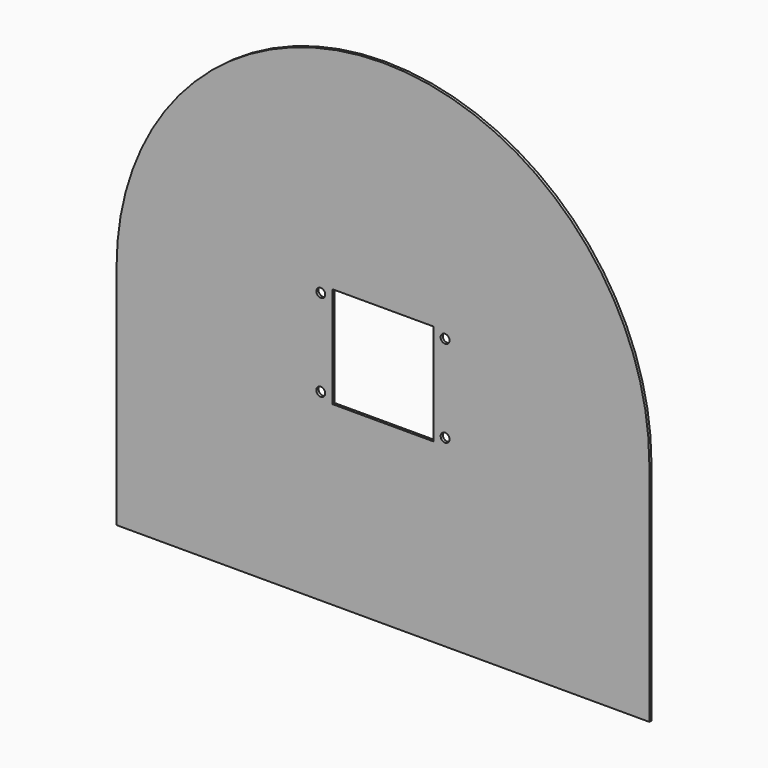
from build123d import *

# Parameters (mm, degrees)
F0_R     = 5
F1_DEPTH = 3


with BuildPart() as f1:
    # F0 (on Front) → F1 (new body)
    with BuildSketch(Plane.XZ):
        with BuildLine():
            ThreePointArc((75, 79), (70, 84), (65, 79))
            ThreePointArc((65, 79), (70, 74), (75, 79))
        make_face()
        with Locations((-70, 79)):
            Circle(F0_R)
        Polygon((-300, 128), (-300, -128), (300, -128), (300, 128), (57, 128), (57, 79), (57, 71), (-57, 71), (-57, 79), (-57, 128), align=None)
        with Locations((-70, 79)):
            Circle(F0_R, mode=Mode.SUBTRACT)
        with BuildLine():
            ThreePointArc((75, 79), (70, 74), (65, 79))
            ThreePointArc((65, 79), (70, 84), (75, 79))
        make_face(mode=Mode.SUBTRACT)
        with Locations((-70, 177)):
            Circle(F0_R)
        with BuildLine():
            ThreePointArc((75, 177), (70, 182), (65, 177))
            ThreePointArc((65, 177), (70, 172), (75, 177))
        make_face()
        with BuildLine():
            ThreePointArc((300, 128), (0, 428), (-300, 128))
            Line((-300, 128), (-57, 128))
            Line((-57, 128), (-57, 177))
            Line((-57, 177), (-57, 185))
            Line((-57, 185), (57, 185))
            Line((57, 185), (57, 177))
            Line((57, 177), (57, 128))
            Line((57, 128), (300, 128))
        make_face()
        with Locations((-70, 177)):
            Circle(F0_R, mode=Mode.SUBTRACT)
        with BuildLine():
            ThreePointArc((75, 177), (70, 172), (65, 177))
            ThreePointArc((65, 177), (70, 182), (75, 177))
        make_face(mode=Mode.SUBTRACT)
    extrude(amount=F1_DEPTH)


solid = f1.part
